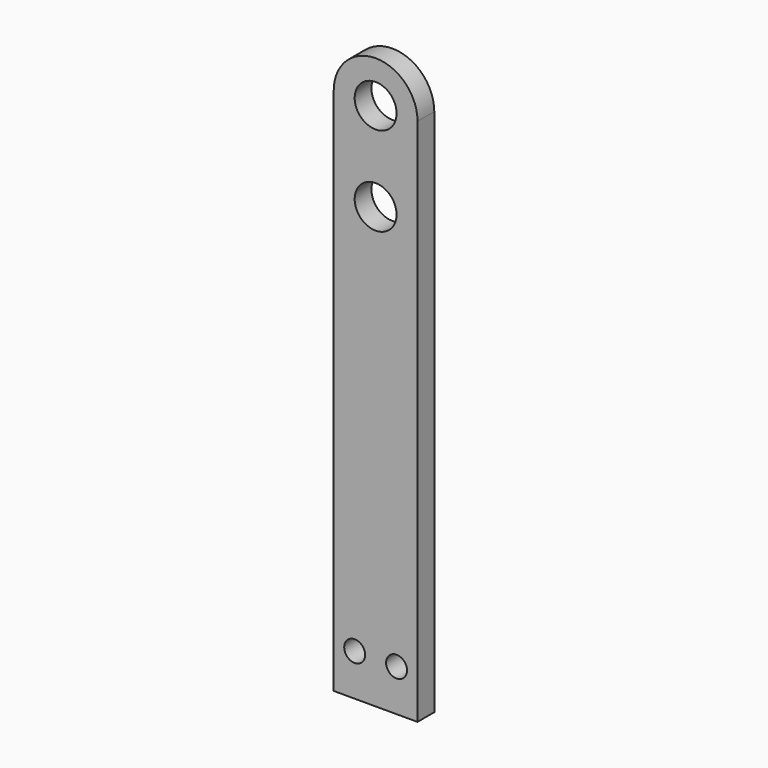
from build123d import *

# Parameters (mm, degrees)
F1_DEPTH = 6.35
F2_R     = 6.35
F2_R_2   = 3.175
F3_DEPTH = 25.4


with BuildPart() as f1:
    # F0 (on Front) → F1 (new body)
    with BuildSketch(Plane.XZ):
        with BuildLine():
            Line((0, 160.3375), (0, 0))
            Line((0, 0), (25.4, 0))
            Line((25.4, 0), (25.4, 160.3375))
            ThreePointArc((25.4, 160.3375), (12.7, 173.0375), (0, 160.3375))
        make_face()
    extrude(amount=F1_DEPTH)

    # F2 (on face) → F3 (cut)
    with BuildSketch(Plane.XZ.offset(6.35)):
        with Locations((12.7, 160.3375)):
            Circle(F2_R)
        with Locations((12.7, 133.35)):
            Circle(F2_R)
        with Locations((6.35, 12.7)):
            Circle(F2_R_2)
        with Locations((19.05, 12.7)):
            Circle(F2_R_2)
    extrude(amount=-F3_DEPTH, mode=Mode.SUBTRACT)


solid = f1.part
